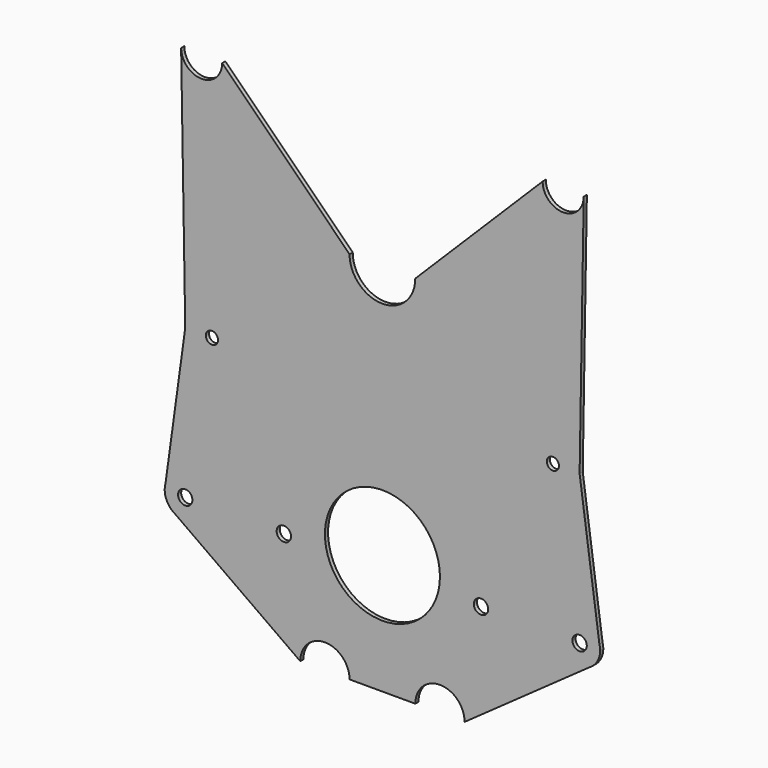
from build123d import *

# Parameters (mm, degrees)
F0_R     = 5.55625
F0_R_2   = 44.45
F0_R_3   = 4.719662
F0_R_4   = 4.704253
F1_DEPTH = 3.048
F2_DEPTH = 3.048


with BuildPart() as f1:
    # F0 (on Front) → F1 (new body)
    with BuildSketch(Plane.XZ):
        with BuildLine():
            ThreePointArc((-155.575, 294.705913), (-155.572772, 294.439949), (-155.566088, 294.174059))
            Line((-155.566088, 294.174059), (-155.575, 294.705913))
        make_face()
        with BuildLine():
            Line((155.575, 294.705913), (155.566088, 294.174059))
            ThreePointArc((155.566088, 294.174059), (155.572772, 294.439949), (155.575, 294.705913))
        make_face()
        with BuildLine():
            ThreePointArc((-63.5, -92.644087), (-44.45, -73.594087), (-25.4, -92.644087))
            Line((-25.4, -92.644087), (25.4, -92.644087))
            ThreePointArc((25.4, -92.644087), (44.45, -73.594087), (63.5, -92.644087))
            Line((63.5, -92.644087), (160.537703, -23.724692))
            Line((160.537703, -23.724692), (162.58925, -22.267616))
            ThreePointArc((162.58925, -22.267616), (166.783497, -16.812021), (168.275, -10.094087))
            Line((168.275, -10.094087), (167.684475, -5.804511))
            Line((167.684475, -5.804511), (152.4, 105.221913))
            Line((152.4, 105.221913), (155.566088, 294.174059))
            ThreePointArc((155.566088, 294.174059), (139.434035, 278.833141), (123.825, 294.705913))
            Line((123.825, 294.705913), (25.396428, 196.652323))
            ThreePointArc((25.396428, 196.652323), (0, 171.255895), (-25.396428, 196.652323))
            Line((-25.396428, 196.652323), (-123.825, 294.705913))
            ThreePointArc((-123.825, 294.705913), (-139.434035, 278.833141), (-155.566088, 294.174059))
            Line((-155.566088, 294.174059), (-152.4, 105.221913))
            Line((-152.4, 105.221913), (-167.684475, -5.804511))
            Line((-167.684475, -5.804511), (-168.275, -10.094087))
            ThreePointArc((-168.275, -10.094087), (-166.783497, -16.812021), (-162.58925, -22.267616))
            Line((-162.58925, -22.267616), (-160.537703, -23.724692))
            Line((-160.537703, -23.724692), (-63.5, -92.644087))
        make_face()
        with Locations((-152.4, -10.094087)):
            Circle(F0_R, mode=Mode.SUBTRACT)
        with Locations((-76.2, -10.094087)):
            Circle(F0_R, mode=Mode.SUBTRACT)
        Circle(F0_R_2, mode=Mode.SUBTRACT)
        with Locations((76.2, -10.094087)):
            Circle(F0_R, mode=Mode.SUBTRACT)
        with Locations((152.4, -10.094087)):
            Circle(F0_R, mode=Mode.SUBTRACT)
        with Locations((-131.7498, 105.221913)):
            Circle(F0_R_3, mode=Mode.SUBTRACT)
        with Locations((131.7498, 105.221913)):
            Circle(F0_R_4, mode=Mode.SUBTRACT)
        with BuildLine():
            ThreePointArc((-162.58925, -22.267616), (-161.592392, -23.036867), (-160.537703, -23.724692))
            Line((-160.537703, -23.724692), (-162.58925, -22.267616))
        make_face()
        with BuildLine():
            Line((162.58925, -22.267616), (160.537703, -23.724692))
            ThreePointArc((160.537703, -23.724692), (161.592392, -23.036867), (162.58925, -22.267616))
        make_face()
        with BuildLine():
            ThreePointArc((-167.684475, -5.804511), (-168.126676, -7.929071), (-168.275, -10.094087))
            Line((-168.275, -10.094087), (-167.684475, -5.804511))
        make_face()
        with BuildLine():
            Line((167.684475, -5.804511), (168.275, -10.094087))
            ThreePointArc((168.275, -10.094087), (168.126676, -7.929071), (167.684475, -5.804511))
        make_face()
    extrude(amount=F1_DEPTH)


with BuildPart() as f2:
    # F0 (on Front) → F2 (new body)
    with BuildSketch(Plane.XZ):
        with BuildLine():
            ThreePointArc((-155.575, 294.705913), (-155.572772, 294.439949), (-155.566088, 294.174059))
            Line((-155.566088, 294.174059), (-155.575, 294.705913))
        make_face()
        with BuildLine():
            Line((155.575, 294.705913), (155.566088, 294.174059))
            ThreePointArc((155.566088, 294.174059), (155.572772, 294.439949), (155.575, 294.705913))
        make_face()
        with BuildLine():
            ThreePointArc((-63.5, -92.644087), (-44.45, -73.594087), (-25.4, -92.644087))
            Line((-25.4, -92.644087), (25.4, -92.644087))
            ThreePointArc((25.4, -92.644087), (44.45, -73.594087), (63.5, -92.644087))
            Line((63.5, -92.644087), (160.537703, -23.724692))
            Line((160.537703, -23.724692), (162.58925, -22.267616))
            ThreePointArc((162.58925, -22.267616), (166.783497, -16.812021), (168.275, -10.094087))
            Line((168.275, -10.094087), (167.684475, -5.804511))
            Line((167.684475, -5.804511), (152.4, 105.221913))
            Line((152.4, 105.221913), (155.566088, 294.174059))
            ThreePointArc((155.566088, 294.174059), (139.434035, 278.833141), (123.825, 294.705913))
            Line((123.825, 294.705913), (25.396428, 196.652323))
            ThreePointArc((25.396428, 196.652323), (0, 171.255895), (-25.396428, 196.652323))
            Line((-25.396428, 196.652323), (-123.825, 294.705913))
            ThreePointArc((-123.825, 294.705913), (-139.434035, 278.833141), (-155.566088, 294.174059))
            Line((-155.566088, 294.174059), (-152.4, 105.221913))
            Line((-152.4, 105.221913), (-167.684475, -5.804511))
            Line((-167.684475, -5.804511), (-168.275, -10.094087))
            ThreePointArc((-168.275, -10.094087), (-166.783497, -16.812021), (-162.58925, -22.267616))
            Line((-162.58925, -22.267616), (-160.537703, -23.724692))
            Line((-160.537703, -23.724692), (-63.5, -92.644087))
        make_face()
        with Locations((-152.4, -10.094087)):
            Circle(F0_R, mode=Mode.SUBTRACT)
        with Locations((-76.2, -10.094087)):
            Circle(F0_R, mode=Mode.SUBTRACT)
        Circle(F0_R_2, mode=Mode.SUBTRACT)
        with Locations((76.2, -10.094087)):
            Circle(F0_R, mode=Mode.SUBTRACT)
        with Locations((152.4, -10.094087)):
            Circle(F0_R, mode=Mode.SUBTRACT)
        with Locations((-131.7498, 105.221913)):
            Circle(F0_R_3, mode=Mode.SUBTRACT)
        with Locations((131.7498, 105.221913)):
            Circle(F0_R_4, mode=Mode.SUBTRACT)
        with BuildLine():
            ThreePointArc((-162.58925, -22.267616), (-161.592392, -23.036867), (-160.537703, -23.724692))
            Line((-160.537703, -23.724692), (-162.58925, -22.267616))
        make_face()
        with BuildLine():
            Line((162.58925, -22.267616), (160.537703, -23.724692))
            ThreePointArc((160.537703, -23.724692), (161.592392, -23.036867), (162.58925, -22.267616))
        make_face()
        with BuildLine():
            ThreePointArc((-167.684475, -5.804511), (-168.126676, -7.929071), (-168.275, -10.094087))
            Line((-168.275, -10.094087), (-167.684475, -5.804511))
        make_face()
        with BuildLine():
            Line((167.684475, -5.804511), (168.275, -10.094087))
            ThreePointArc((168.275, -10.094087), (168.126676, -7.929071), (167.684475, -5.804511))
        make_face()
    extrude(amount=F2_DEPTH)


solid = Compound([f1.part, f2.part])
